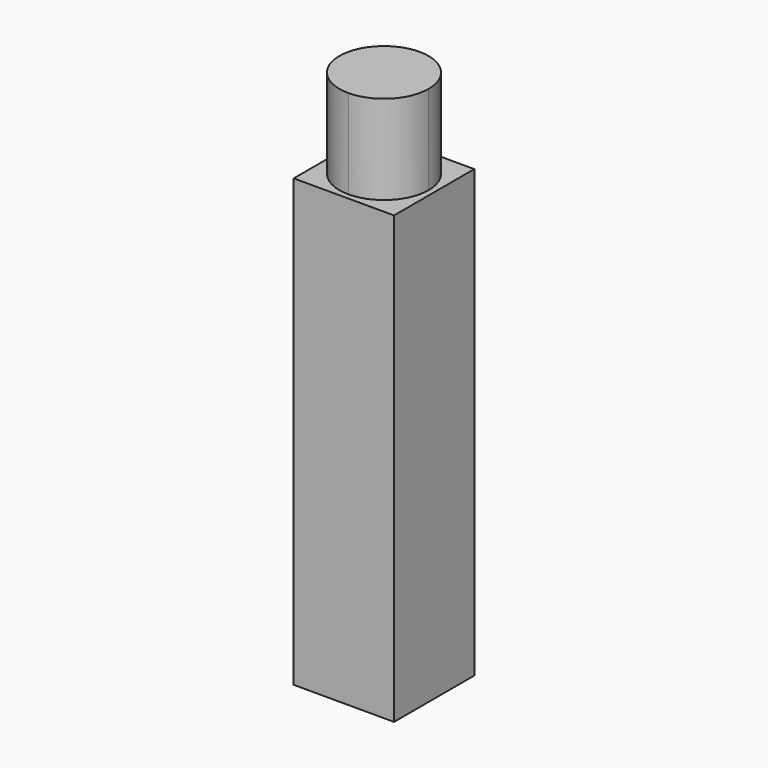
from build123d import *

# Parameters (mm, degrees)
F0_W     = 4.5
F0_H     = 4.5
F1_DEPTH = 20
F3_DEPTH = 4


with BuildPart() as f1:
    # F0 (on Top) → F1 (new body)
    with BuildSketch(Plane.XY):
        with Locations((2.25, 2.25)):
            Rectangle(F0_W, F0_H)
    extrude(amount=F1_DEPTH)

    # F2 (on face) → F3 (join)
    with BuildSketch(Plane.XY.offset(20)):
        with BuildLine():
            Line((0.25, 2.25), (2.25, 2.25))
            Line((2.25, 2.25), (2.25, 4.25))
            ThreePointArc((2.25, 4.25), (0.8357864376, 3.6642135624), (0.25, 2.25))
        make_face()
        with BuildLine():
            Line((2.25, 2.25), (4.25, 2.25))
            ThreePointArc((4.25, 2.25), (3.6642135624, 3.6642135624), (2.25, 4.25))
            Line((2.25, 4.25), (2.25, 2.25))
        make_face()
        with BuildLine():
            ThreePointArc((2.25, 0.25), (3.6642135624, 0.8357864376), (4.25, 2.25))
            Line((4.25, 2.25), (2.25, 2.25))
            Line((2.25, 2.25), (2.25, 0.25))
        make_face()
        with BuildLine():
            Line((2.25, 0.25), (2.25, 2.25))
            Line((2.25, 2.25), (0.25, 2.25))
            ThreePointArc((0.25, 2.25), (0.8357864376, 0.8357864376), (2.25, 0.25))
        make_face()
    extrude(amount=F3_DEPTH)


solid = f1.part
